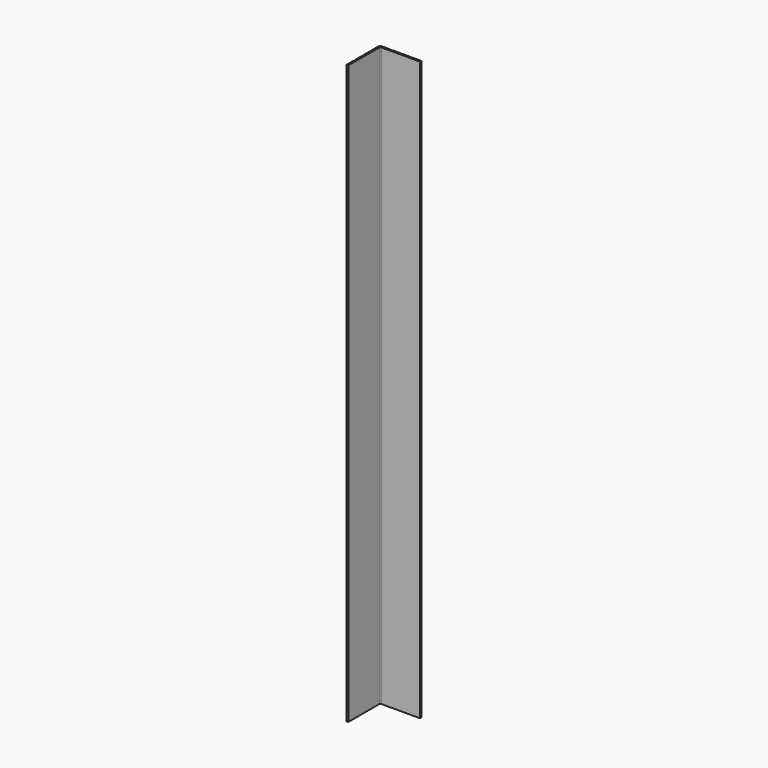
from build123d import *

# Parameters (mm, degrees)
F1_DEPTH = 501
F2_R     = 0.2


with BuildPart() as f1:
    # F0 (on Top) → F1 (new body)
    with BuildSketch(Plane.XY):
        with BuildLine():
            Line((0, 7.5), (0, 0))
            Line((0, 0), (1.5, 0))
            Line((1.5, 0), (1.5, 33.5))
            ThreePointArc((1.5, 33.5), (1.57612, 33.882683), (1.792893, 34.207107))
            ThreePointArc((1.792893, 34.207107), (2.117317, 34.42388), (2.5, 34.5))
            Line((2.5, 34.5), (36, 34.5))
            Line((36, 34.5), (36, 36))
            Line((36, 36), (28.5, 36))
            Line((28.5, 36), (28.5, 35.75))
            Line((28.5, 35.75), (26.5, 35.75))
            Line((26.5, 35.75), (26.5, 36))
            Line((26.5, 36), (20, 36))
            Line((20, 36), (20, 35.75))
            Line((20, 35.75), (18, 35.75))
            Line((18, 35.75), (18, 36))
            Line((18, 36), (11.5, 36))
            Line((11.5, 36), (11.5, 35.75))
            Line((11.5, 35.75), (9.5, 35.75))
            Line((9.5, 35.75), (9.5, 36))
            Line((9.5, 36), (2, 36))
            ThreePointArc((2, 36), (1.234633, 35.847759), (0.585786, 35.414214))
            ThreePointArc((0.585786, 35.414214), (0.152241, 34.765367), (0, 34))
            Line((0, 34), (0, 26.5))
            Line((0, 26.5), (0.25, 26.5))
            Line((0.25, 26.5), (0.25, 24.5))
            Line((0.25, 24.5), (0, 24.5))
            Line((0, 24.5), (0, 18))
            Line((0, 18), (0.25, 18))
            Line((0.25, 18), (0.25, 16))
            Line((0.25, 16), (0, 16))
            Line((0, 16), (0, 9.5))
            Line((0, 9.5), (0.25, 9.5))
            Line((0.25, 9.5), (0.25, 7.5))
            Line((0.25, 7.5), (0, 7.5))
        make_face()
    extrude(amount=F1_DEPTH)

    # F2
    f2_edges = [f1.edges().sort_by_distance(p)[0] for p in [
        (0, 16, 250.5),
        (0, 18, 250.5),
        (0, 9.5, 250.5),
        (0, 7.5, 250.5),
        (0, 26.5, 250.5),
        (0, 24.5, 250.5),
        (9.5, 36, 250.5),
        (11.5, 36, 250.5),
        (18, 36, 250.5),
        (20, 36, 250.5),
        (26.5, 36, 250.5),
        (28.5, 36, 250.5),
        (36, 36, 250.5),
        (36, 34.5, 250.5),
        (0, 0, 250.5),
        (1.5, 0, 250.5),
    ]]
    fillet(f2_edges, radius=F2_R)


solid = f1.part
